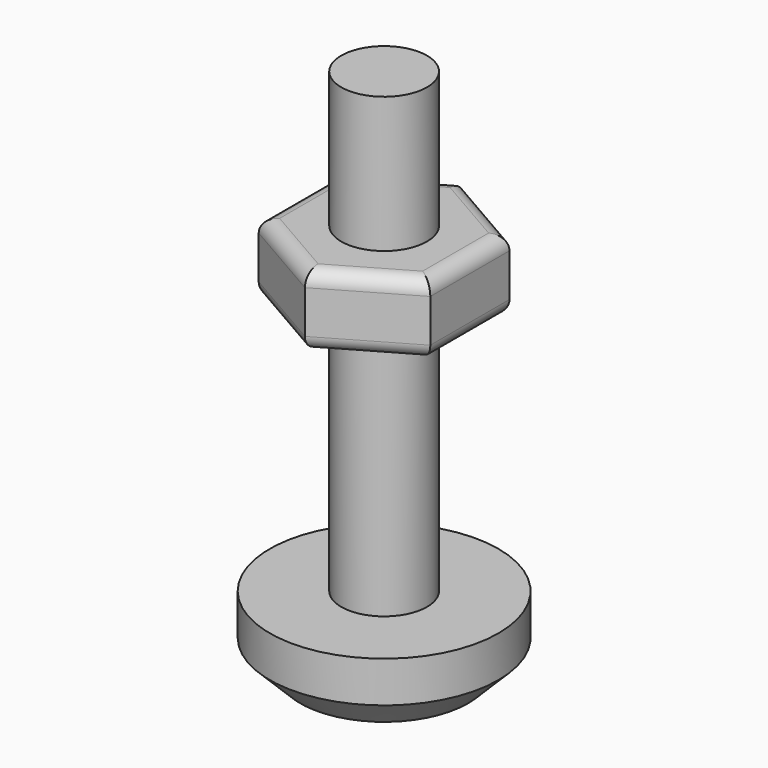
from build123d import *

# Parameters (mm, degrees)
F4_DEPTH = 1.25
F5_R     = 0.5


with BuildPart() as f1:
    # F0 (on Front) → F1 (revolve)
    with BuildSketch(Plane.XZ):
        Polygon((1.5, 16), (0, 16), (0, -2.5), (2.93934, -2.5), (4, -1.43934), (4, 0), (1.5, 0), align=None)
    revolve(axis=Axis((0, 0, 6.75), (0, 0, -1)))

    # F3 (on offset) → F4 (join, symmetric)
    with BuildSketch(Plane.XY.offset(10)):
        Polygon((3, -1.732051), (3, 1.732051), (0, 3.464102), (-3, 1.732051), (-3, -1.732051), (0, -3.464102), align=None)
    extrude(amount=F4_DEPTH, both=True)

    # F5
    f5_edges = [f1.edges().sort_by_distance(p)[0] for p in [
        (1.5, -2.598076, 11.25),
        (3, 0, 11.25),
        (1.5, 2.598076, 11.25),
        (-1.5, -2.598076, 11.25),
        (-3, 0, 11.25),
        (-1.5, 2.598076, 11.25),
        (-1.5, -2.598076, 8.75),
        (1.5, -2.598076, 8.75),
        (3, 0, 8.75),
        (-3, 0, 8.75),
        (-1.5, 2.598076, 8.75),
        (1.5, 2.598076, 8.75),
    ]]
    fillet(f5_edges, radius=F5_R)


solid = f1.part
